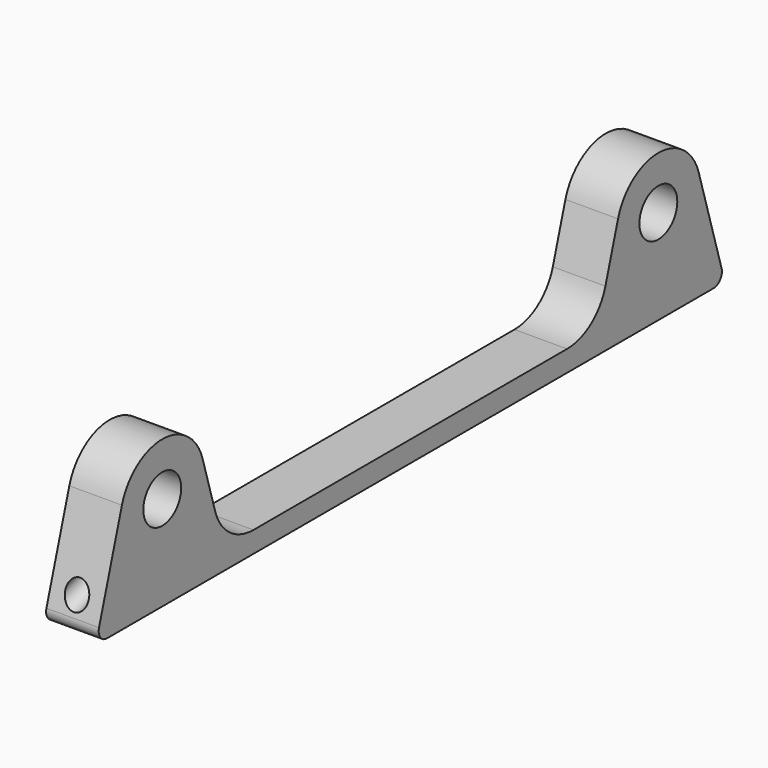
from build123d import *

# Parameters (mm, degrees)
F1_R     = 4.5
F2_DEPTH = 5


with BuildPart() as f2:
    # F1 (on Right) → F2 (new body, symmetric)
    with BuildSketch(Plane.YZ):
        with BuildLine():
            ThreePointArc((-49.3648631859, 20.8533870909), (-58.9491306128, 28), (-68.5333980396, 20.8533870909))
            Line((-68.5333980396, 20.8533870909), (-73.9764481387, 2.5706774182))
            ThreePointArc((-73.9764481387, 2.5706774182), (-73.6629278745, 0.804457202), (-72.0595946533, 0))
            Line((-72.0595946533, 0), (0, 0))
            Line((0, 0), (72.0595946533, 0))
            ThreePointArc((72.0595946533, 0), (73.6629278745, 0.804457202), (73.9764481387, 2.5706774182))
            Line((73.9764481387, 2.5706774182), (68.5333980396, 20.8533870909))
            ThreePointArc((68.5333980396, 20.8533870909), (58.9491306128, 28), (49.3648631859, 20.8533870909))
            Line((49.3648631859, 20.8533870909), (46.3688067405, 10.7899062927))
            ThreePointArc((46.3688067405, 10.7899062927), (42.9422660578, 5.8843403804), (37.2629158044, 4))
            Line((37.2629158044, 4), (0, 4))
            Line((0, 4), (-37.2629158044, 4))
            ThreePointArc((-37.2629158044, 4), (-42.9422660578, 5.8843403804), (-46.3688067405, 10.7899062927))
            Line((-46.3688067405, 10.7899062927), (-49.3648631859, 20.8533870909))
        make_face()
        with Locations((-58.9491306128, 18)):
            Circle(F1_R, mode=Mode.SUBTRACT)
        with Locations((58.9491306128, 18)):
            Circle(F1_R, mode=Mode.SUBTRACT)
    extrude(amount=F2_DEPTH, both=True)

    # F3 (on Right) → F4 (revolve, cut)
    with BuildSketch(Plane.YZ):
        Polygon((-74.1904521705, 3.2894974752), (-48.3798609148, 10.9737162702), (-48.7008669625, 12.0519463557), (-46.3688067405, 10.7899062927), (-47.2248228677, 13.6651865208), (-74.8324642659, 5.4459576462), align=None)
    revolve(axis=Axis((0, -61.0286435668, 9.5555720835), (0, 0.9584267427, 0.2853387091)), mode=Mode.SUBTRACT)


solid = f2.part
